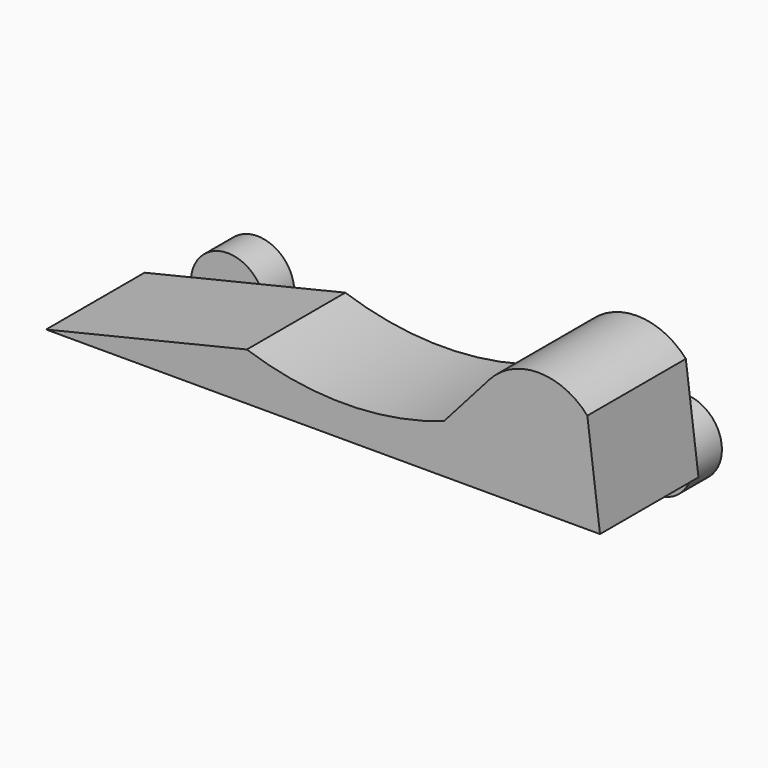
from build123d import *

# Parameters (mm, degrees)
F1_DEPTH = 12.7
F2_R     = 3.81
F3_DEPTH = 3.81


with BuildPart() as f1:
    # F0 (on Front) → F1 (new body)
    with BuildSketch(Plane.XZ):
        with BuildLine():
            Line((-5.907577, 4.919479), (-26.620285, 0))
            Line((-26.620285, 0), (30.529715, 0))
            Line((30.529715, 0), (29.224286, 10.333018))
            ThreePointArc((29.224286, 10.333018), (24.175302, 12.607941), (19.126318, 10.333018))
            Line((19.126318, 10.333018), (14.432896, 5.026235))
            ThreePointArc((14.432896, 5.026235), (4.271617, 3.266179), (-5.907577, 4.919479))
        make_face()
    extrude(amount=F1_DEPTH)

    # F2 (on face) → F3 (join)
    with BuildSketch(Plane.XZ):
        with Locations((-18.029146, 0.762)):
            Circle(F2_R)
        with Locations((26.09019, 0.762)):
            Circle(F2_R)
    extrude(amount=-F3_DEPTH)


solid = f1.part
